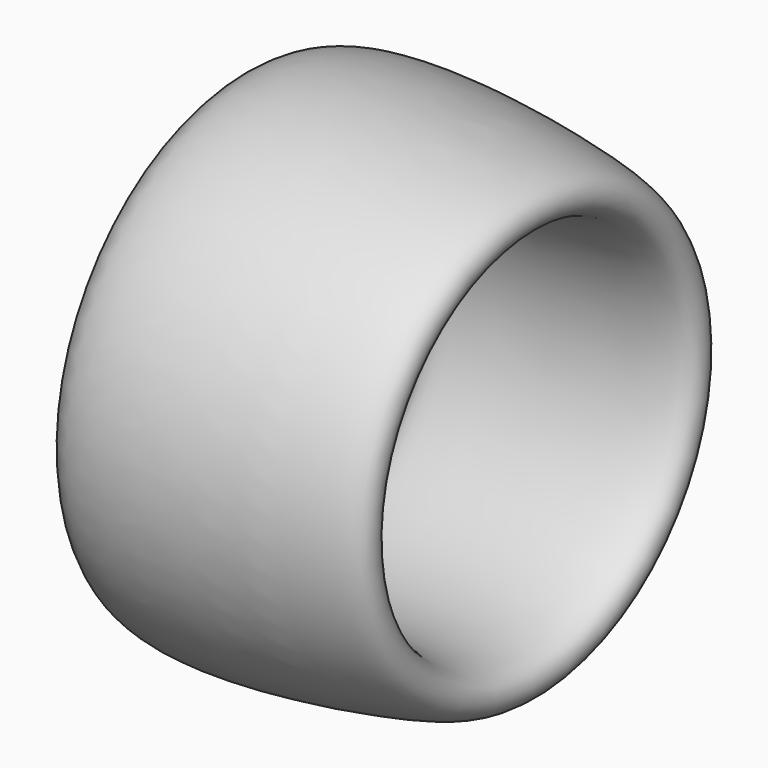
from build123d import *


with BuildPart() as f1:
    # F0 (on Front) → F1 (revolve)
    with BuildSketch(Plane.XZ):
        with BuildLine():
            add(Edge.make_bspline(
                [(-4.9601858482, 40.8336147666), (-4.9648971927, 40.4142243036), (-11.6977098395, 40.7539858277), (-16.5099118193, 45.9142080183), (-16.9844345865, 63.9098820285), (45.0446663464, 55.9736723047), (55.1588942931, 51.106199755), (54.9058112226, 44.0083818229), (40.3456905822, 40.7100839573), (2.677878059, 41.1189877262), (-6.8257993828, 42.6308130334), (-8.8182398261, 54.6103893128), (9.4012792217, 42.1655040709), (36.8393135241, 43.202975064), (50.4745523386, 47.3682846112), (44.057479338, 52.8187309645), (24.5378223824, 55.4843703688), (4.4155415367, 57.5343189552), (-12.9651325947, 55.0416682619), (-13.7079266192, 49.1762934122), (-12.4636776809, 43.5937098303), (-4.9548917603, 41.3048793789), (-4.9601858482, 40.8336147666)],
                knots=[0, 0, 0, 0, 0.0326976271, 0.0704057615, 0.1150816721, 0.2211111002, 0.2670157357, 0.2955136356, 0.3468196325, 0.4343926134, 0.4758016092, 0.5099944791, 0.5653782074, 0.6429511599, 0.6872909568, 0.7173944872, 0.7795432975, 0.8460613871, 0.9006980307, 0.9299233081, 0.9632580235, 1, 1, 1, 1], degree=3))
        make_face()
    revolve(axis=Axis((62.8919452429, 0, 0), (1, 0, 0)))


solid = f1.part
